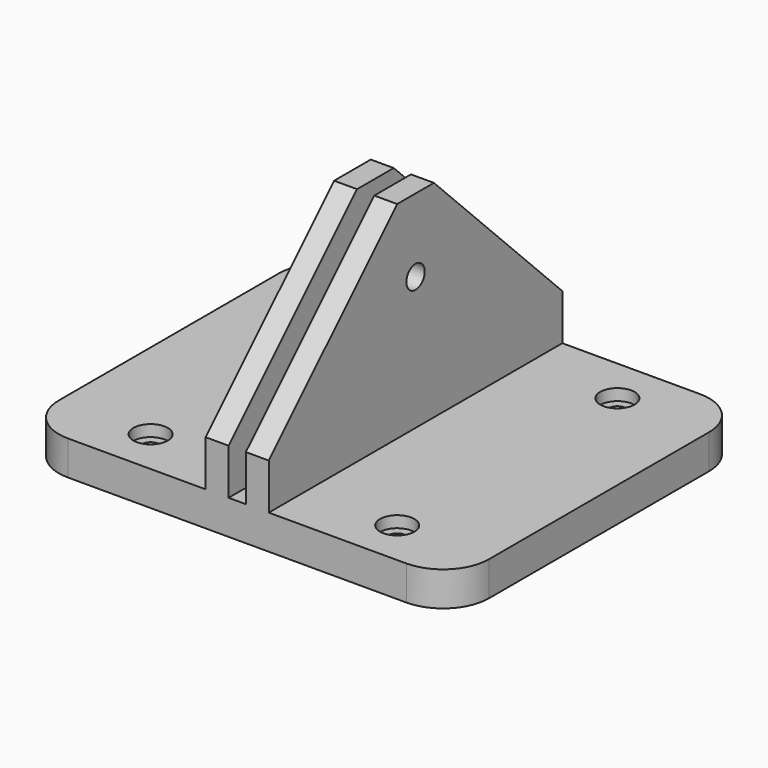
from build123d import *

# Parameters (mm, degrees)
F1_DEPTH       = 101.6
F3_D           = 4.7752
F3_CBORE_D     = 9.525
F3_CBORE_DEPTH = 3.175
F5_D           = 4.7752
F5_CBORE_D     = 9.525
F5_CBORE_DEPTH = 3.175
F7_D           = 6.35
F8_SIZE        = 44.45
F9_R           = 12.7


with BuildPart() as f1:
    # F0 (on Front) → F1 (new body)
    with BuildSketch(Plane.XZ):
        Polygon((-27.797534, -28.01471), (-78.597534, -28.01471), (-78.597534, -37.53971), (40.477666, -37.53971), (40.477666, -28.01471), (-10.322334, -28.01471), (-10.322334, 29.13529), (-16.672334, 29.13529), (-16.672334, -28.01471), (-21.447534, -28.01471), (-21.447534, 29.13529), (-27.797534, 29.13529), align=None)
    extrude(amount=F1_DEPTH)

    # F3 (through all)
    with Locations(Plane.XY.offset(-28.01471)):
        with Locations((-53.197534, -12.7), (-53.197534, -88.9)):
            CounterBoreHole(F3_D / 2, F3_CBORE_D / 2, F3_CBORE_DEPTH)

    # F5 (through all)
    with Locations(Plane.XY.offset(-28.01471)):
        with Locations((15.077666, -88.9), (15.077666, -12.7)):
            CounterBoreHole(F5_D / 2, F5_CBORE_D / 2, F5_CBORE_DEPTH)

    # F7 (through all)
    with Locations(Plane.YZ.offset(-10.322334)):
        with Locations((-50.8, 8.81529)):
            Hole(F7_D / 2)

    # F8
    f8_edges = [f1.edges().sort_by_distance(p)[0] for p in [
        (-13.497334, -101.6, 29.13529),
        (-24.622534, -101.6, 29.13529),
        (-13.497334, 0, 29.13529),
        (-24.622534, 0, 29.13529),
    ]]
    chamfer(f8_edges, length=F8_SIZE)

    # F9
    f9_edges = [f1.edges().sort_by_distance(p)[0] for p in [
        (40.477666, -101.6, -32.77721),
        (40.477666, 0, -32.77721),
        (-78.597534, -101.6, -32.77721),
        (-78.597534, 0, -32.77721),
    ]]
    fillet(f9_edges, radius=F9_R)


solid = f1.part
